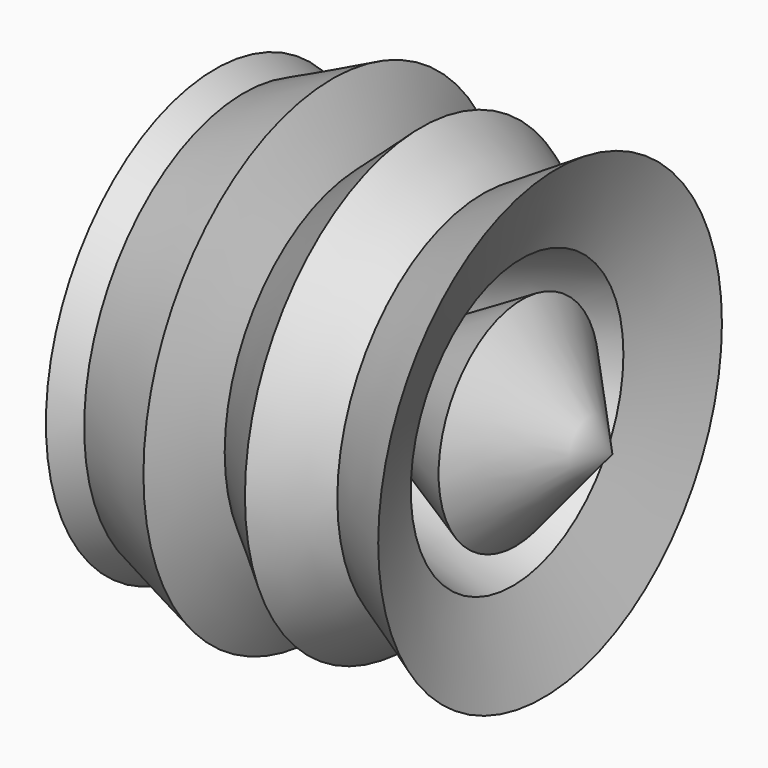
from build123d import *


with BuildPart() as f1:
    # F0 (on Top) → F1 (revolve)
    with BuildSketch(Plane.XY):
        Polygon((-178.4434169531, 79.7937959433), (-205.4731249809, 90.1898443699), (-205.4731249809, -115.6004806716), (172.942712903, -96.9388782978), (82.4971720576, 0), (-52.6513420045, -84.4636261463), (-148.2949107885, -5.4537248798), (12.8437066451, 50.6848879158), (-44.3345122039, -11.6913486272), (79.3783590198, 33.0116227269), (105.3684577346, 117.2195374966), (40.9130118787, 73.5561773181), (-18.3444116265, 107.8631058335), (-69.285005331, 56.9225102663), (-100.4731282592, 119.298748672), align=None)
    revolve(axis=Axis((-16.7850106955, -106.2953136861, 0), (0.9987862255, 0.0492552096, 0)))


solid = f1.part
